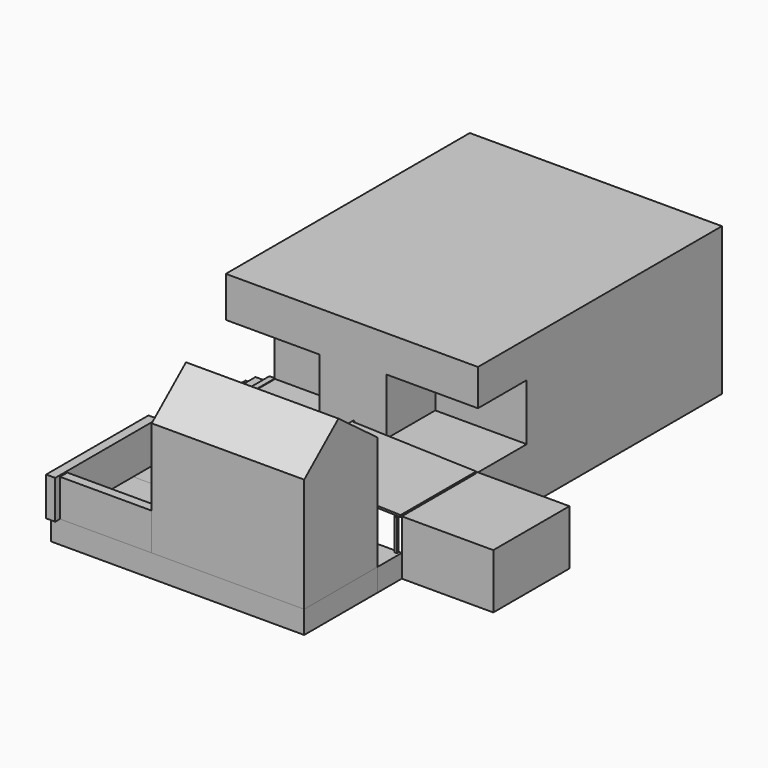
from build123d import *

# Parameters (mm, degrees)
F1_DEPTH  = 254
F3_W      = 77.9563974186
F3_H      = 63.8258055005
F3_W_2    = 76.2
F3_H_2    = 46.9961089506
F4_DEPTH  = 203.2
F5_W      = 79.2795202732
F5_H      = 45.72
F6_DEPTH  = 76.2
F7_W      = 90.3434940743
F7_H      = 18.8920535147
F8_DEPTH  = 25.4
F7_W_2    = 95.3555908054
F9_W      = 211.0243588686
F9_H      = 18.8920535147
F10_DEPTH = 76.2
F12_DEPTH = 25.4
F14_DEPTH = 50.8
F15_W     = 0.7677413523
F15_H     = 50.0176846981
F16_DEPTH = 1.524
F15_W_2   = 1.5830248594
F15_H_2   = 45.5759838223
F15_W_3   = 1.3298803139
F18_DEPTH = 78.74
F20_DEPTH = 1.524
F21_W     = 106.5529286861
F21_H     = 32.1754552424
F22_DEPTH = 7.62
F23_W     = 204.0519267321
F23_H     = 30.9659726918
F24_DEPTH = 7.62
F26_DEPTH = 127


with BuildPart() as f1:
    # F0 (on Front) → F1 (new body)
    with BuildSketch(Plane.XZ):
        Polygon((-77.9563974186, 0), (0, 0), (132.08, 0), (132.08, 45.72), (55.88, 45.72), (55.88, 92.7161089506), (132.08, 92.7161089506), (132.08, 123.0103062721), (-24.9627400838, 123.0103062721), (-68.5986950994, 123.0103062721), (-77.9563974186, 123.0103062721), (-77.9563974186, 89.2258055005), (0, 89.2258055005), (0, 25.4), (-14.4551063059, 25.4), (-77.9563974186, 25.4), align=None)
    extrude(amount=F1_DEPTH)

    # F3 (on face) → F4 (join)
    with BuildSketch(Plane(origin=(0, 0, 0), x_dir=(-1, 0, 0), z_dir=(0, 1, 0))):
        with Locations((38.9781987093, 57.3129027503)):
            Rectangle(F3_W, F3_H)
        with Locations((-93.98, 69.2180544753)):
            Rectangle(F3_W_2, F3_H_2)
    extrude(amount=-F4_DEPTH)

    # F13 (on face) → F14 (join)
    with BuildSketch(Plane.XZ.offset(254)):
        Polygon((-110.9863519669, 0), (-78.3803388476, 0), (-77.5092169642, 25.9113758802), (-82.2400674224, 25.9113758802), (-82.2400674224, 21.5027388185), (-93.868099153, 21.5027388185), (-93.868099153, 16.1978695542), (-102.2087261081, 16.1978695542), (-102.2087261081, 8.3908801898), (-110.9863519669, 8.3908801898), align=None)
    extrude(amount=-F14_DEPTH)


with BuildPart() as f6:
    # F5 (on face) → F6 (new body)
    with BuildSketch(Plane.YZ.offset(132.08)):
        with Locations((-293.6397601366, 22.86)):
            Rectangle(F5_W, F5_H)
    extrude(amount=F6_DEPTH)


with BuildPart() as f8:
    # F7 (on face) → F8 (new body)
    with BuildSketch(Plane.XZ.offset(333.2795202732)):
        with Locations((86.9082529628, 9.4460267574)):
            Rectangle(F7_W, F7_H)
    extrude(amount=F8_DEPTH)


with BuildPart() as f8b:
    # F7 (on face) → F8, piece 2 (new body)
    with BuildSketch(Plane.XZ.offset(333.2795202732)):
        with Locations((-31.2905507162, 9.4460267574)):
            Rectangle(F7_W_2, F7_H)
    extrude(amount=F8_DEPTH)


with BuildPart() as f10:
    # F9 (on face) → F10 (new body)
    with BuildSketch(Plane.XZ.offset(358.6795202732)):
        with Locations((26.5438333154, 9.4460267574)):
            Rectangle(F9_W, F9_H)
    extrude(amount=F10_DEPTH)


with BuildPart() as f12:
    # F11 (on face) → F12 (new body)
    with BuildSketch(Plane.YZ.offset(16.3872446865)):
        Polygon((-358.4486246109, 0), (-333.2795202732, 0), (-358.6795202732, 18.8920535147), align=None)
    extrude(amount=F12_DEPTH)


with BuildPart() as f16:
    # F15 (on face) → F16 (new body)
    with BuildSketch(Plane.XZ.offset(254)):
        with Locations((28.6889392883, 25.0088423491)):
            Rectangle(F15_W, F15_H)
    extrude(amount=F16_DEPTH)


with BuildPart() as f16b:
    # F15 (on face) → F16, piece 2 (new body)
    with BuildSketch(Plane.XZ.offset(254)):
        with Locations((82.7194303274, 22.7879919112)):
            Rectangle(F15_W_2, F15_H_2)
    extrude(amount=F16_DEPTH)


with BuildPart() as f16c:
    # F15 (on face) → F16, piece 3 (new body)
    with BuildSketch(Plane.XZ.offset(254)):
        with Locations((131.4150598431, 22.7879919112)):
            Rectangle(F15_W_3, F15_H_2)
    extrude(amount=F16_DEPTH)


with BuildPart() as f18:
    # F17 (on face) → F18 (new body)
    with BuildSketch(Plane.XZ.offset(255.524)):
        Polygon((131.8197846413, 46.9529815018), (28.3050686121, 50.0176846981), (28.3050686121, 48.4273023903), (131.8197846413, 45.362599194), align=None)
    extrude(amount=F18_DEPTH)


with BuildPart() as f20:
    # F19 (on face) → F20 (new body)
    with BuildSketch(Plane.XZ.offset(334.264)):
        Polygon((42.8430716674, 47.9968837393), (41.9750735164, 18.6790097505), (44.6639020724, 18.6561252922), (44.6639020724, 47.9429754162), align=None)
    extrude(amount=F20_DEPTH)


with BuildPart() as f20b:
    # F19 (on face) → F20, piece 2 (new body)
    with BuildSketch(Plane.XZ.offset(334.264)):
        Polygon((86.4957340196, 46.9529815018), (84.0647137093, 46.7764572824), (83.2328480523, 18.6790097505), (86.4957340196, 18.5824072824), align=None)
    extrude(amount=F20_DEPTH)


with BuildPart() as f20c:
    # F19 (on face) → F20, piece 3 (new body)
    with BuildSketch(Plane.XZ.offset(334.264)):
        Polygon((130.038022995, 45.362599194), (128.0428667087, 45.4744203235), (128.0428667087, 19.0179720521), (130.038022995, 19.0179720521), align=None)
    extrude(amount=F20_DEPTH)


with BuildPart() as f22:
    # F21 (on face) → F22 (new body)
    with BuildSketch(Plane(origin=(-78.9683461189, 0, 0), x_dir=(0, -1, 0), z_dir=(-1, 0, 0))):
        with Locations((386.5559846163, 34.9797811359)):
            Rectangle(F21_W, F21_H)
    extrude(amount=-F22_DEPTH)


with BuildPart() as f24:
    # F23 (on face) → F24 (new body)
    with BuildSketch(Plane.XZ.offset(434.8795202732)):
        with Locations((30.0300493836, 34.3750398606)):
            Rectangle(F23_W, F23_H)
    extrude(amount=-F24_DEPTH)


with BuildPart() as f26:
    # F25 (on face) → F26 (new body)
    with BuildSketch(Plane.YZ.offset(132.0560127497)):
        Polygon((-434.8795202732, 18.8920535147), (-358.6795202732, 18.8920535147), (-358.6795202732, 49.4040995836), (-358.6795202732, 113.9142438769), (-434.8795202732, 113.9142438769), align=None)
        Polygon((-434.8795202732, 113.9142438769), (-358.6795202732, 113.9142438769), (-399.2381393909, 144.1921293736), align=None)
    extrude(amount=-F26_DEPTH)


solid = Compound([f1.part, f6.part, f8.part, f8b.part, f10.part, f12.part, f16.part, f16b.part, f16c.part, f18.part, f20.part, f20b.part, f20c.part, f22.part, f24.part, f26.part])
